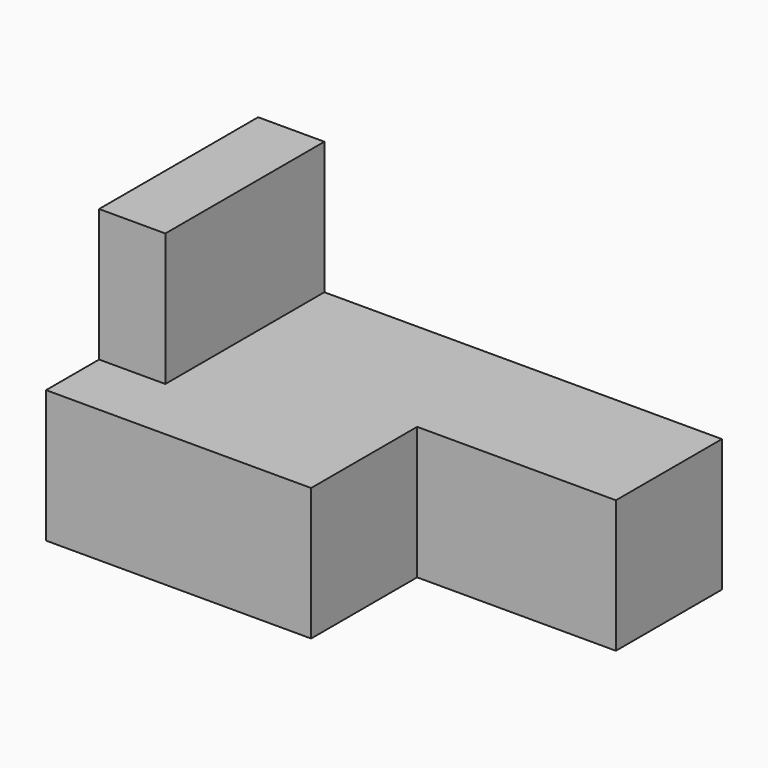
from build123d import *

# Parameters (mm, degrees)
F0_W     = 25.4
F0_H     = 25.4
F1_DEPTH = 12.7
F2_W     = 6.35
F2_H     = 19.05
F3_DEPTH = 12.7
F4_W     = 12.7
F4_H     = 12.7
F5_DEPTH = 19.05


with BuildPart() as f1:
    # F0 (on Top) → F1 (new body)
    with BuildSketch(Plane.XY):
        with Locations((12.7, -12.7)):
            Rectangle(F0_W, F0_H)
    extrude(amount=F1_DEPTH)

    # F2 (on face) → F3 (join)
    with BuildSketch(Plane.XY.offset(12.7)):
        with Locations((3.175, -9.525)):
            Rectangle(F2_W, F2_H)
    extrude(amount=F3_DEPTH)

    # F4 (on face) → F5 (join)
    with BuildSketch(Plane.YZ.offset(25.4)):
        with Locations((-6.35, 6.35)):
            Rectangle(F4_W, F4_H)
    extrude(amount=F5_DEPTH)


solid = f1.part
